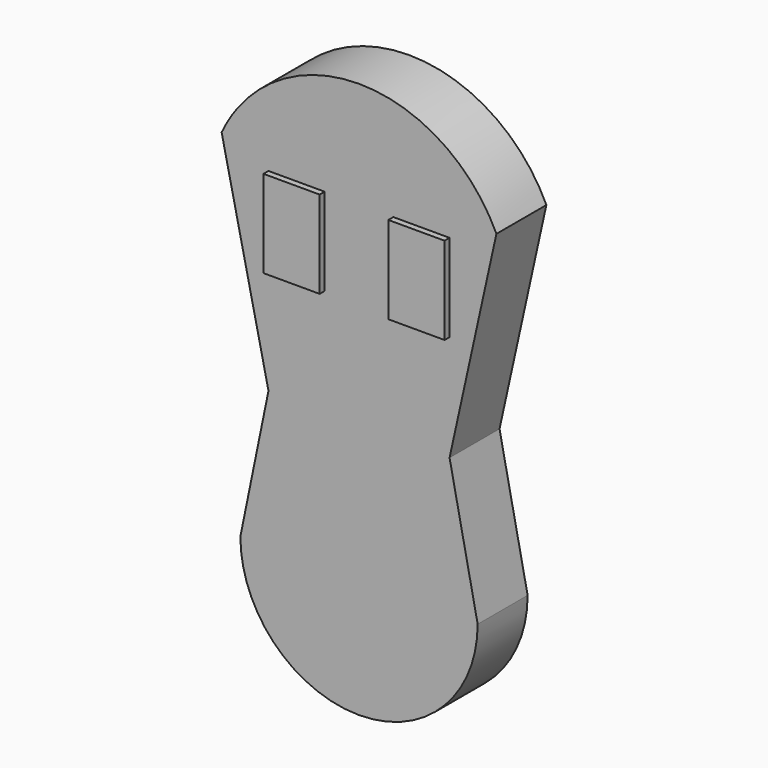
from build123d import *

# Parameters (mm, degrees)
F0_W     = 90
F0_H     = 140
F1_DEPTH = 50
F2_DEPTH = 60


with BuildPart() as f1:
    # F0 (on Front) → F1 (new body, symmetric)
    with BuildSketch(Plane.XZ):
        with BuildLine():
            ThreePointArc((-78.4523257867, -360), (-107.282768365, -314.702650866), (-160.5263193295, -321.6430066583))
            ThreePointArc((-160.5263193295, -321.6430066583), (-128.4523257867, -360), (-87.4827418154, -388.661702483))
            ThreePointArc((-87.4827418154, -388.661702483), (-80.7633375474, -375.0253253116), (-78.4523257867, -360))
        make_face()
        with BuildLine():
            ThreePointArc((87.4827418154, -388.661702483), (128.4523257867, -360), (160.5263193295, -321.6430066583))
            ThreePointArc((160.5263193295, -321.6430066583), (94.6490821586, -323.1578947368), (87.4827418154, -388.661702483))
        make_face()
        with BuildLine():
            Line((145, 0), (220, 340))
            ThreePointArc((220, 340), (25, 478.7098081869), (-194.2734008086, 382.8735593816))
            ThreePointArc((-194.2734008086, 382.8735593816), (-176.489484262, 364.6340216005), (-170, 340))
            ThreePointArc((-170, 340), (-181.0222875237, 308.6832643765), (-209.2295172044, 291.1738113268))
            Line((-209.2295172044, 291.1738113268), (-145, 0))
            Line((-145, 0), (-190, -220))
            ThreePointArc((-190, -220), (-182.4828768304, -272.9150230436), (-160.5263193295, -321.6430066583))
            ThreePointArc((-160.5263193295, -321.6430066583), (-107.282768365, -314.702650866), (-78.4523257867, -360))
            ThreePointArc((-78.4523257867, -360), (-80.7633375474, -375.0253253116), (-87.4827418154, -388.661702483))
            ThreePointArc((-87.4827418154, -388.661702483), (0, -410), (87.4827418154, -388.661702483))
            ThreePointArc((87.4827418154, -388.661702483), (94.6490821586, -323.1578947368), (160.5263193295, -321.6430066583))
            ThreePointArc((160.5263193295, -321.6430066583), (182.4828768304, -272.9150230436), (190, -220))
            Line((190, -220), (145, 0))
        make_face()
        with Locations((-100, 240)):
            Rectangle(F0_W, F0_H, mode=Mode.SUBTRACT)
        with Locations((100, 240)):
            Rectangle(F0_W, F0_H, mode=Mode.SUBTRACT)
        with BuildLine():
            ThreePointArc((-170, 340), (-176.489484262, 364.6340216005), (-194.2734008086, 382.8735593816))
            ThreePointArc((-194.2734008086, 382.8735593816), (-208.2430027105, 362.1006246439), (-220, 340))
            Line((-220, 340), (-209.2295172044, 291.1738113268))
            ThreePointArc((-209.2295172044, 291.1738113268), (-181.0222875237, 308.6832643765), (-170, 340))
        make_face()
        with BuildLine():
            Line((145, 0), (220, 340))
            ThreePointArc((220, 340), (25, 478.7098081869), (-194.2734008086, 382.8735593816))
            ThreePointArc((-194.2734008086, 382.8735593816), (-176.489484262, 364.6340216005), (-170, 340))
            ThreePointArc((-170, 340), (-181.0222875237, 308.6832643765), (-209.2295172044, 291.1738113268))
            Line((-209.2295172044, 291.1738113268), (-145, 0))
            Line((-145, 0), (-190, -220))
            ThreePointArc((-190, -220), (-182.4828768304, -272.9150230436), (-160.5263193295, -321.6430066583))
            ThreePointArc((-160.5263193295, -321.6430066583), (-107.282768365, -314.702650866), (-78.4523257867, -360))
            ThreePointArc((-78.4523257867, -360), (-80.7633375474, -375.0253253116), (-87.4827418154, -388.661702483))
            ThreePointArc((-87.4827418154, -388.661702483), (0, -410), (87.4827418154, -388.661702483))
            ThreePointArc((87.4827418154, -388.661702483), (94.6490821586, -323.1578947368), (160.5263193295, -321.6430066583))
            ThreePointArc((160.5263193295, -321.6430066583), (182.4828768304, -272.9150230436), (190, -220))
            Line((190, -220), (145, 0))
        make_face()
        with Locations((-100, 240)):
            Rectangle(F0_W, F0_H, mode=Mode.SUBTRACT)
        with Locations((100, 240)):
            Rectangle(F0_W, F0_H, mode=Mode.SUBTRACT)
        with Locations((-100, 240)):
            Rectangle(F0_W, F0_H)
        with Locations((100, 240)):
            Rectangle(F0_W, F0_H)
    extrude(amount=F1_DEPTH, both=True)

    # F0 (on Front) → F2 (join)
    with BuildSketch(Plane.XZ):
        with Locations((-100, 240)):
            Rectangle(F0_W, F0_H)
        with Locations((100, 240)):
            Rectangle(F0_W, F0_H)
    extrude(amount=F2_DEPTH)


solid = f1.part
